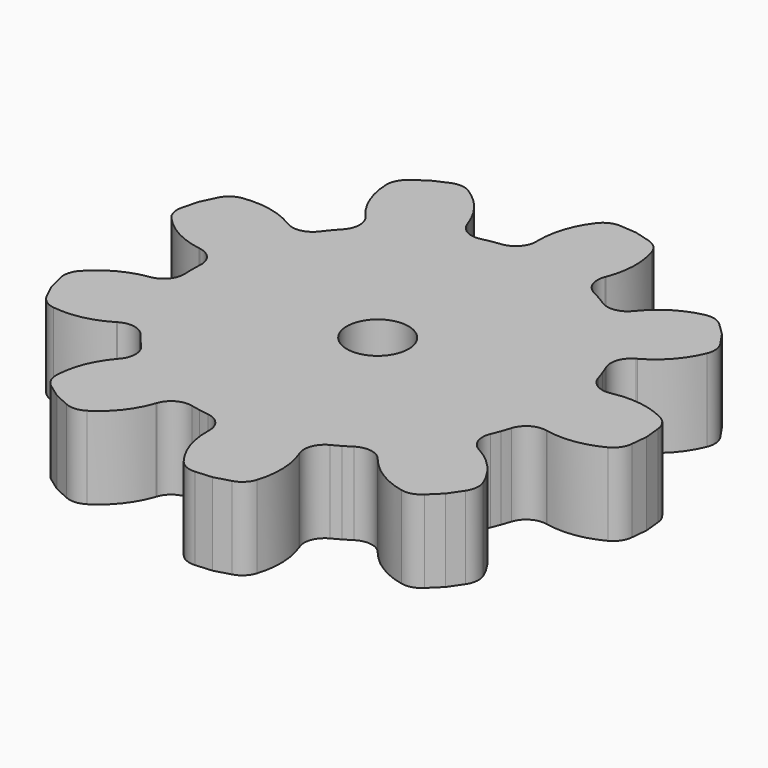
from build123d import *

# Parameters (mm, degrees)
F1_DEPTH = 4
F2_COUNT = 9
F4_R     = 1.5
F5_DEPTH = 4


with BuildPart() as f1:
    # F0 (on Top) → F1 (new body)
    with BuildSketch(Plane.XY):
        with BuildLine():
            Line((8.305078, 3.467805), (0, 0))
            Line((0, 0), (8.305078, -3.467805))
            ThreePointArc((8.305078, -3.467805), (8.464361, -3.058527), (8.603489, -2.641966))
            ThreePointArc((8.603489, -2.641966), (9.047406, -2.076548), (9.755918, -1.955011))
            Line((9.755918, -1.955011), (9.805066, -1.96486))
            ThreePointArc((9.805066, -1.96486), (11.163417, -2.001728), (12.455768, -1.581844))
            ThreePointArc((12.455768, -1.581844), (12.819329, -1.255462), (12.98487, -0.795791))
            Line((12.98487, -0.795791), (13.06382, 0))
            Line((13.06382, 0), (12.98487, 0.795791))
            ThreePointArc((12.98487, 0.795791), (12.819329, 1.255462), (12.455768, 1.581844))
            ThreePointArc((12.455768, 1.581844), (11.163417, 2.001728), (9.805066, 1.96486))
            Line((9.805066, 1.96486), (9.755918, 1.955011))
            ThreePointArc((9.755918, 1.955011), (9.047406, 2.076548), (8.603489, 2.641966))
            ThreePointArc((8.603489, 2.641966), (8.464361, 3.058527), (8.305078, 3.467805))
        make_face()
    extrude(amount=F1_DEPTH)


with BuildPart() as f2_1:
    # F2: instance of F1
    add(f1.part.rotate(Axis((0, 0, 2), (0, 0, 1)), 1 * 360 / F2_COUNT))


with BuildPart() as f2_2:
    # F2: instance of F1
    add(f1.part.rotate(Axis((0, 0, 2), (0, 0, 1)), 2 * 360 / F2_COUNT))


with BuildPart() as f2_3:
    # F2: instance of F1
    add(f1.part.rotate(Axis((0, 0, 2), (0, 0, 1)), 3 * 360 / F2_COUNT))


with BuildPart() as f2_4:
    # F2: instance of F1
    add(f1.part.rotate(Axis((0, 0, 2), (0, 0, 1)), 4 * 360 / F2_COUNT))


with BuildPart() as f2_5:
    # F2: instance of F1
    add(f1.part.rotate(Axis((0, 0, 2), (0, 0, 1)), 5 * 360 / F2_COUNT))


with BuildPart() as f2_6:
    # F2: instance of F1
    add(f1.part.rotate(Axis((0, 0, 2), (0, 0, 1)), 6 * 360 / F2_COUNT))


with BuildPart() as f2_7:
    # F2: instance of F1
    add(f1.part.rotate(Axis((0, 0, 2), (0, 0, 1)), 7 * 360 / F2_COUNT))


with BuildPart() as f2_8:
    # F2: instance of F1
    add(f1.part.rotate(Axis((0, 0, 2), (0, 0, 1)), 8 * 360 / F2_COUNT))


with BuildPart() as f2_7_1:
    add(f2_7.part)

    # F3: union F2_6, F2_4, F2_5, F1, F2_1, F2_3, F2_2, F2_8
    add(f2_6.part)
    add(f2_4.part)
    add(f2_5.part)
    add(f1.part)
    add(f2_1.part)
    add(f2_3.part)
    add(f2_2.part)
    add(f2_8.part)

    # F4 (on face) → F5 (cut, through all)
    with BuildSketch(Plane.XY.offset(4)):
        Circle(F4_R)
    extrude(amount=-F5_DEPTH, mode=Mode.SUBTRACT)


solid = f2_7_1.part
